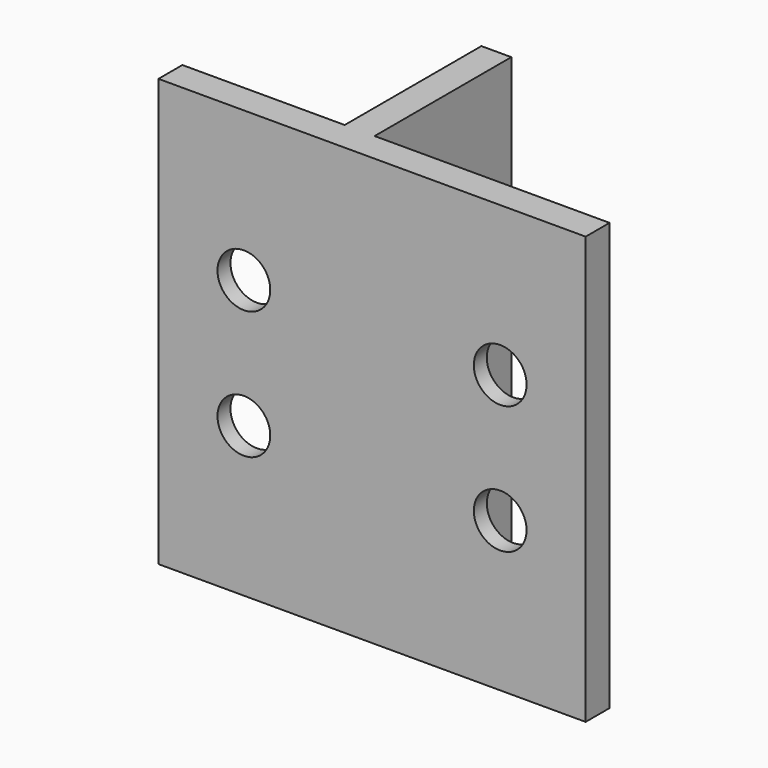
from build123d import *

# Parameters (mm, degrees)
F0_W      = 50
F0_H      = 50
F1_DEPTH  = 3.5
F2_W      = 3.5
F2_H      = 20
F3_DEPTH  = 25
F5_DEPTH  = 25
F6_R      = 5.9215
F7_DEPTH  = 1.6
F8_R      = 3.0875
F9_DEPTH  = 25
F10_R     = 5.9215
F11_DEPTH = 1.6


with BuildPart() as f1:
    # F0 (on Front) → F1 (new body)
    with BuildSketch(Plane.XZ):
        Rectangle(F0_W, F0_H)
    extrude(amount=F1_DEPTH)

    # F2 (on Top) → F3 (join, symmetric)
    with BuildSketch(Plane.XY):
        with Locations((-4.25, 10)):
            Rectangle(F2_W, F2_H)
    extrude(amount=F3_DEPTH, both=True)

    # F4 (on face) → F5 (cut)
    with BuildSketch(Plane(origin=(-6, 0, 0), x_dir=(0, -1, 0), z_dir=(-1, 0, 0))):
        with BuildLine():
            Line((-10, 7.5), (-6.9125, 7.5))
            ThreePointArc((-6.9125, 7.5), (-12.183192, 9.683192), (-10, 4.4125))
            Line((-10, 4.4125), (-10, 7.5))
        make_face()
        with BuildLine():
            ThreePointArc((-6.9125, -7.5), (-7.816808, -5.316808), (-10, -4.4125))
            Line((-10, -4.4125), (-10, -7.5))
            Line((-10, -7.5), (-6.9125, -7.5))
        make_face()
        with BuildLine():
            Line((-10, -7.5), (-10, -4.4125))
            ThreePointArc((-10, -4.4125), (-12.183192, -9.683192), (-6.9125, -7.5))
            Line((-6.9125, -7.5), (-10, -7.5))
        make_face()
        with BuildLine():
            ThreePointArc((-10, 4.4125), (-7.816808, 5.316808), (-6.9125, 7.5))
            Line((-6.9125, 7.5), (-10, 7.5))
            Line((-10, 7.5), (-10, 4.4125))
        make_face()
    extrude(amount=-F5_DEPTH, mode=Mode.SUBTRACT)

    # F6 (on face) → F7 (cut)
    with BuildSketch(Plane(origin=(-6, 0, 0), x_dir=(0, -1, 0), z_dir=(-1, 0, 0))):
        with Locations((-10, 7.5)):
            Circle(F6_R)
        with Locations((-10, -7.5)):
            Circle(F6_R)
    extrude(amount=-F7_DEPTH, mode=Mode.SUBTRACT)

    # F8 (on face) → F9 (cut)
    with BuildSketch(Plane(origin=(0, 0, 0), x_dir=(-1, 0, 0), z_dir=(0, 1, 0))):
        with Locations((-15, 7.5)):
            Circle(F8_R)
        with Locations((-15, -7.5)):
            Circle(F8_R)
        with Locations((15, 7.5)):
            Circle(F8_R)
        with Locations((15, -7.5)):
            Circle(F8_R)
    extrude(amount=-F9_DEPTH, mode=Mode.SUBTRACT)

    # F10 (on face) → F11 (cut)
    with BuildSketch(Plane(origin=(0, 0, 0), x_dir=(-1, 0, 0), z_dir=(0, 1, 0))):
        with Locations((-15, 7.5)):
            Circle(F10_R)
        with Locations((-15, -7.5)):
            Circle(F10_R)
        with Locations((15.092427, 7.5)):
            Circle(F10_R)
        with Locations((15, -7.5)):
            Circle(F10_R)
    extrude(amount=-F11_DEPTH, mode=Mode.SUBTRACT)


solid = f1.part
